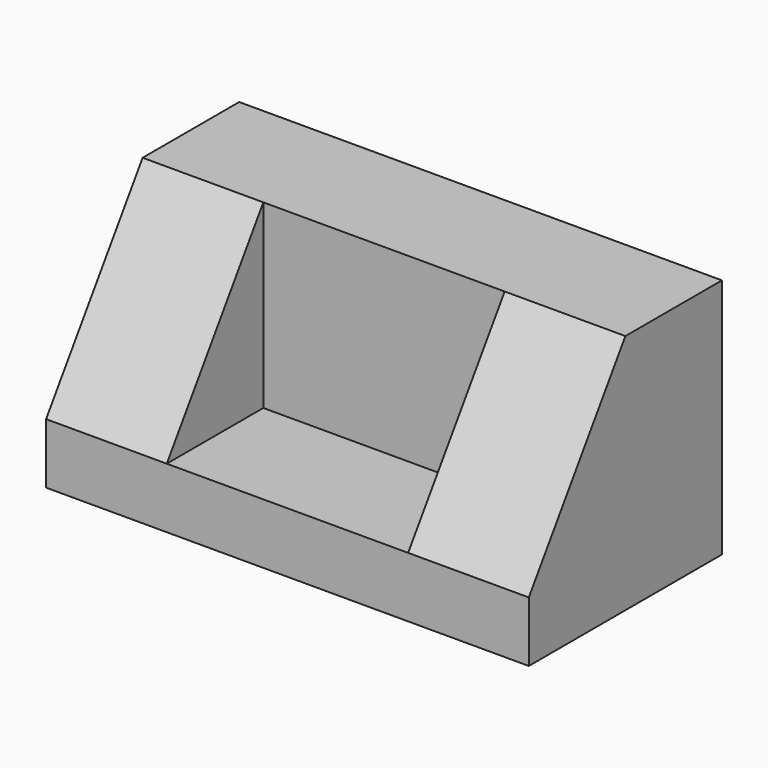
from build123d import *

# Parameters (mm, degrees)
F0_W     = 203.2
F0_H     = 25.4
F1_DEPTH = 101.6
F3_DEPTH = 50.8
F5_DEPTH = 50.8
F6_W     = 101.6
F6_H     = 50.8
F7_DEPTH = 76.2


with BuildPart() as f1:
    # F0 (on Front) → F1 (new body)
    with BuildSketch(Plane.XZ):
        with Locations((29.834592, -49.509181)):
            Rectangle(F0_W, F0_H)
    extrude(amount=F1_DEPTH)

    # F2 (on face) → F3 (join)
    with BuildSketch(Plane.YZ.offset(131.434592)):
        Polygon((-101.6, -36.809181), (0, -36.809181), (0, 39.390819), (-50.8, 39.390819), align=None)
    extrude(amount=-F3_DEPTH)

    # F4 (on face) → F5 (join)
    with BuildSketch(Plane(origin=(-71.765408, 0, 0), x_dir=(0, -1, 0), z_dir=(-1, 0, 0))):
        Polygon((0, 39.390819), (0, -36.809181), (101.6, -36.809181), (50.8, 39.390819), align=None)
    extrude(amount=-F5_DEPTH)

    # F6 (on face) → F7 (join)
    with BuildSketch(Plane.XY.offset(39.390819)):
        with Locations((29.834592, -25.4)):
            Rectangle(F6_W, F6_H)
    extrude(amount=-F7_DEPTH)


solid = f1.part
